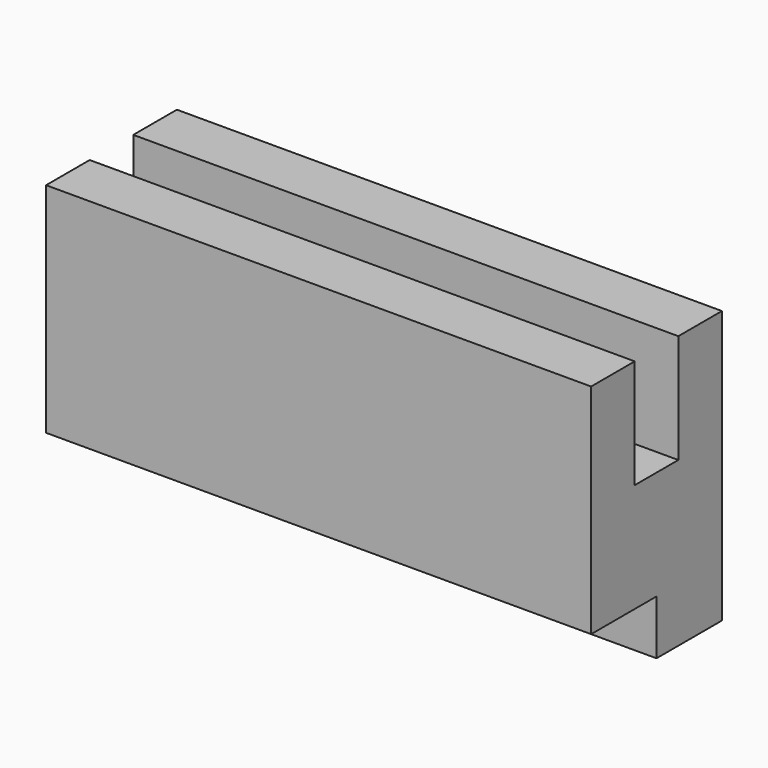
from build123d import *

# Parameters (mm, degrees)
F0_W     = 38.1
F0_H     = 63.5
F1_DEPTH = 127
F2_W     = 19.05
F2_H     = 12.7
F3_DEPTH = 127.001
F4_W     = 12.7
F4_H     = 25.4
F5_DEPTH = 127.001


with BuildPart() as f1:
    # F0 (on Right) → F1 (new body)
    with BuildSketch(Plane.YZ):
        with Locations((-19.05, 31.75)):
            Rectangle(F0_W, F0_H)
    extrude(amount=F1_DEPTH)

    # F2 (on face) → F3 (cut, through all)
    with BuildSketch(Plane.YZ.offset(127)):
        with Locations((-28.575, 6.35)):
            Rectangle(F2_W, F2_H)
    extrude(amount=-F3_DEPTH, mode=Mode.SUBTRACT)

    # F4 (on face) → F5 (cut, through all)
    with BuildSketch(Plane.YZ.offset(127)):
        with Locations((-19.05, 50.8)):
            Rectangle(F4_W, F4_H)
    extrude(amount=-F5_DEPTH, mode=Mode.SUBTRACT)


solid = f1.part
